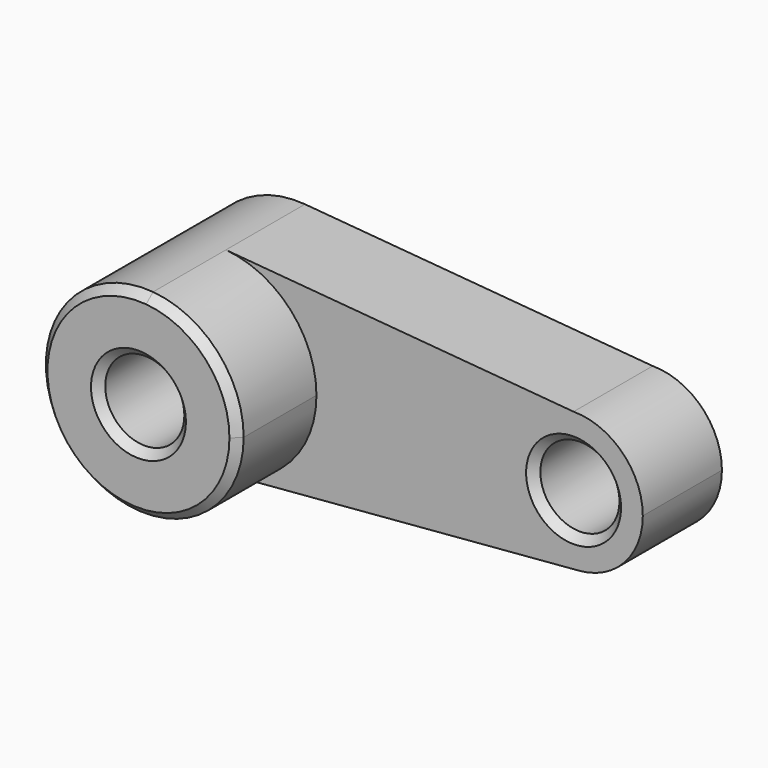
from build123d import *

# Parameters (mm, degrees)
F0_R     = 10
F1_DEPTH = 25
F2_DEPTH = 50
F3_SIZE  = 2


with BuildPart() as f1:
    # F0 (on Front) → F1 (new body)
    with BuildSketch(Plane.XZ):
        with BuildLine():
            ThreePointArc((2.083333, -24.913043), (18.399502, -16.92508), (25, 0))
            ThreePointArc((25, 0), (18.40534, 16.918731), (2.100522, 24.9116))
            ThreePointArc((2.100522, 24.9116), (-24.999999, 0.008625), (2.083333, -24.913043))
        make_face()
        Circle(F0_R, mode=Mode.SUBTRACT)
        with BuildLine():
            ThreePointArc((2.100522, 24.9116), (18.40534, 16.918731), (25, 0))
            ThreePointArc((25, 0), (18.399502, -16.92508), (2.083333, -24.913043))
            Line((2.083333, -24.913043), (91.458333, -17.43913))
            ThreePointArc((91.458333, -17.43913), (72.515224, -0.729802), (90, 17.5))
            Line((90, 17.5), (2.100522, 24.9116))
        make_face()
        with BuildLine():
            ThreePointArc((107.5, 0), (102.374369, 12.374369), (90, 17.5))
            ThreePointArc((90, 17.5), (72.515224, -0.729802), (91.458333, -17.43913))
            ThreePointArc((91.458333, -17.43913), (102.879651, -11.847556), (107.5, 0))
        make_face()
        with Locations((90, 0)):
            Circle(F0_R, mode=Mode.SUBTRACT)
    extrude(amount=F1_DEPTH)

    # F0 (on Front) → F2 (join)
    with BuildSketch(Plane.XZ):
        with BuildLine():
            ThreePointArc((2.083333, -24.913043), (18.399502, -16.92508), (25, 0))
            ThreePointArc((25, 0), (18.40534, 16.918731), (2.100522, 24.9116))
            ThreePointArc((2.100522, 24.9116), (-24.999999, 0.008625), (2.083333, -24.913043))
        make_face()
        Circle(F0_R, mode=Mode.SUBTRACT)
    extrude(amount=F2_DEPTH)

    # F3
    f3_edges = [f1.edges().sort_by_distance(p)[0] for p in [
        (-10, 0, 0),
        (10, -25, 0),
        (-10, -50, 0),
        (-2.083333, -50, 24.913043),
        (80, -25, 0),
    ]]
    chamfer(f3_edges, length=F3_SIZE)


solid = f1.part
